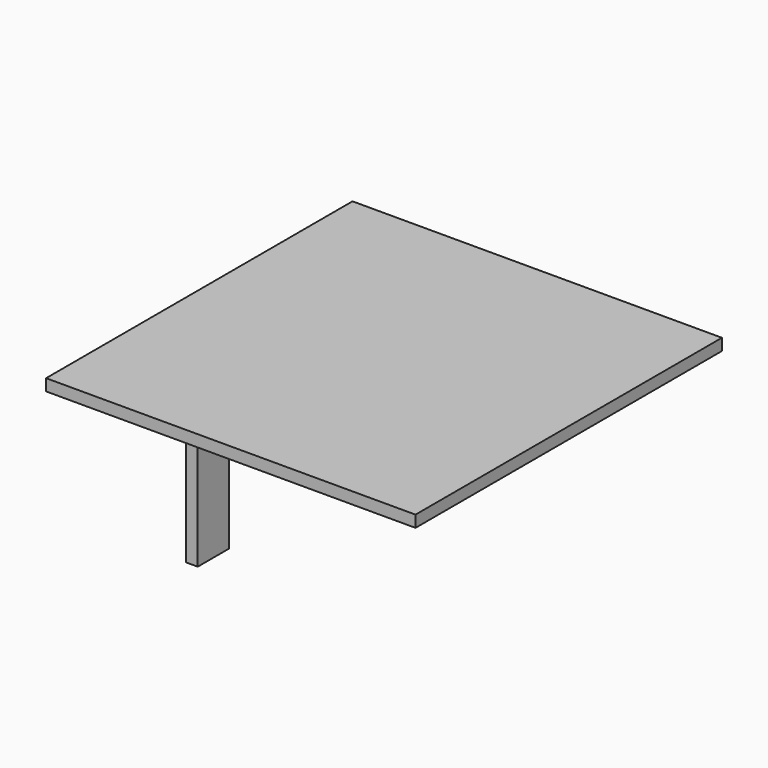
from build123d import *

# Parameters (mm, degrees)
SKETCH014_W  = 9.5
SKETCH014_H  = 9.85
PAD007_DEPTH = 0.3
SKETCH015_W  = 0.3
SKETCH015_H  = 3
PAD008_DEPTH = 2.2
SKETCH016_W  = 0.3
SKETCH016_H  = 1
PAD009_DEPTH = 3.5


with BuildPart() as part:
    # Sketch014 → Pad007 (new body)
    with BuildSketch(Plane.XY):
        with Locations((0, -0.075)):
            Rectangle(SKETCH014_W, SKETCH014_H)
    extrude(amount=-PAD007_DEPTH)

    # Sketch015 → Pad008 (join)
    with BuildSketch(Plane.XY.offset(-0.3)):
        with Locations((-4.6, 0)):
            Rectangle(SKETCH015_W, SKETCH015_H)
    extrude(amount=-PAD008_DEPTH)

    # Sketch016 → Pad009 (join)
    with BuildSketch(Plane.XY.offset(-2.5)):
        with Locations((-4.6, 0)):
            Rectangle(SKETCH016_W, SKETCH016_H)
    extrude(amount=-PAD009_DEPTH)


solid = part.part
